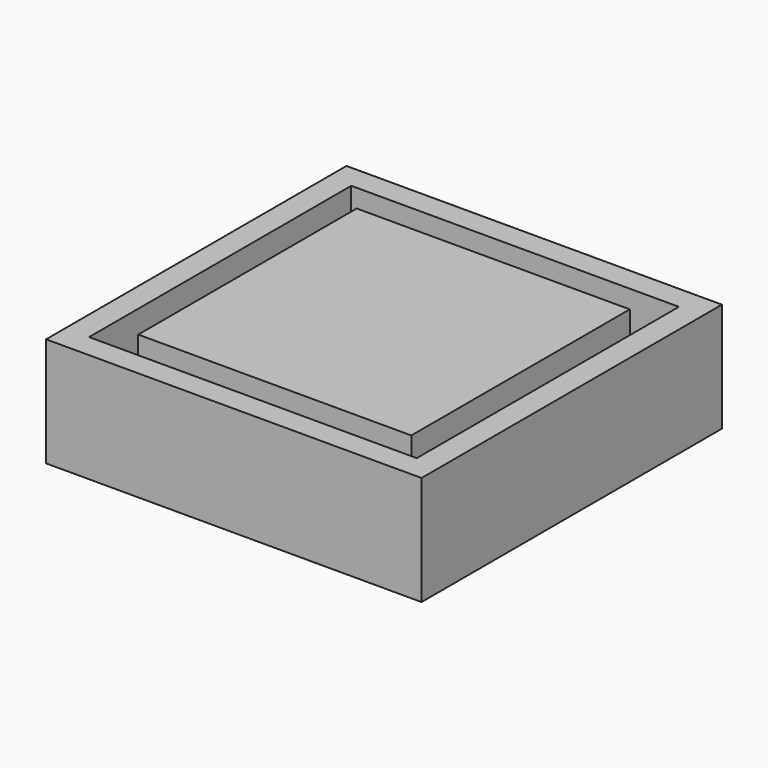
from build123d import *

# Parameters (mm, degrees)
F0_W     = 27.5
F0_H     = 27.5
F0_W_2   = 24
F0_H_2   = 24
F0_W_3   = 20
F0_H_3   = 20
F1_DEPTH = 2
F2_DEPTH = 6


with BuildPart() as f1:
    # F0 (on Top) → F1 (new body)
    with BuildSketch(Plane.XY):
        Rectangle(F0_W, F0_H)
        Rectangle(F0_W_2, F0_H_2, mode=Mode.SUBTRACT)
        Rectangle(F0_W_2, F0_H_2)
        Rectangle(F0_W_3, F0_H_3, mode=Mode.SUBTRACT)
        Rectangle(F0_W_3, F0_H_3)
    extrude(amount=-F1_DEPTH)

    # F0 (on Top) → F2 (join)
    with BuildSketch(Plane.XY):
        Rectangle(F0_W, F0_H)
        Rectangle(F0_W_2, F0_H_2, mode=Mode.SUBTRACT)
        Rectangle(F0_W_3, F0_H_3)
    extrude(amount=F2_DEPTH)


solid = f1.part
